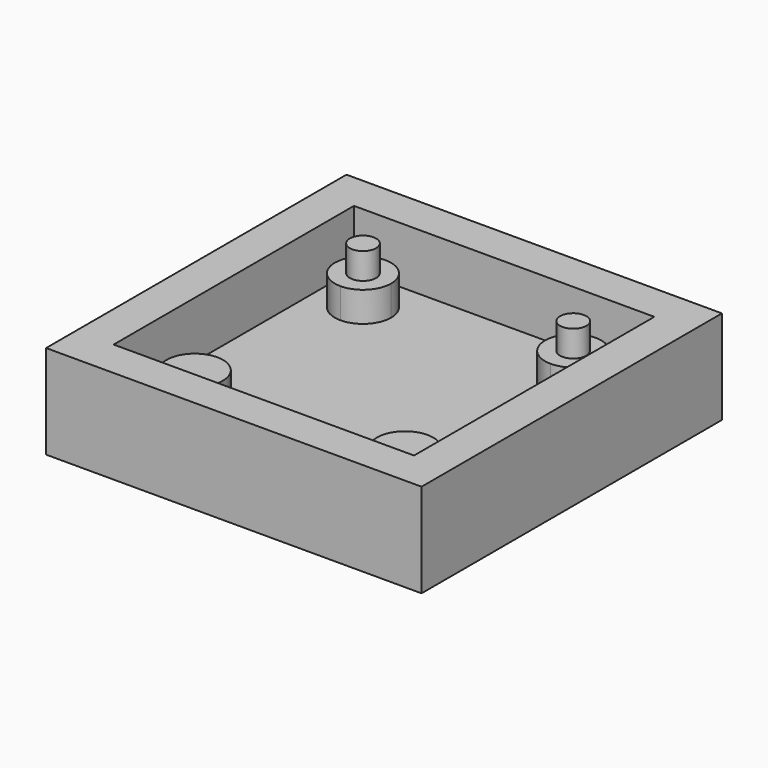
from build123d import *

# Parameters (mm, degrees)
F0_W     = 25.4
F0_H     = 25.4
F1_DEPTH = 6.35
F2_T     = -2.54
F4_DEPTH = 2.032
F5_R     = 0.889
F6_DEPTH = 1.778


with BuildPart() as f1:
    # F0 (on Top) → F1 (new body)
    with BuildSketch(Plane.XY):
        with Locations((-104.38567, -20.633587)):
            Rectangle(F0_W, F0_H)
    extrude(amount=F1_DEPTH)

    # F2
    f2_openings = [f1.faces().sort_by_distance(p)[0] for p in [
        (-104.38567, -20.633587, 6.35),
    ]]
    offset(amount=F2_T, openings=f2_openings)

    # F3 (on face) → F4 (join)
    with BuildSketch(Plane.XY.offset(2.54)):
        with BuildLine():
            ThreePointArc((-111.49767, -15.426587), (-110.150632, -14.868626), (-109.59267, -13.521587))
            Line((-109.59267, -13.521587), (-111.49767, -13.521587))
            Line((-111.49767, -13.521587), (-111.49767, -15.426587))
        make_face()
        with BuildLine():
            Line((-111.49767, -13.521587), (-109.59267, -13.521587))
            ThreePointArc((-109.59267, -13.521587), (-112.844708, -12.174549), (-111.49767, -15.426587))
            Line((-111.49767, -15.426587), (-111.49767, -13.521587))
        make_face()
        with BuildLine():
            ThreePointArc((-95.36867, -13.521587), (-97.27367, -11.616587), (-99.17867, -13.521587))
            Line((-99.17867, -13.521587), (-97.27367, -13.521587))
            Line((-97.27367, -13.521587), (-97.27367, -15.426587))
            ThreePointArc((-97.27367, -15.426587), (-95.926632, -14.868626), (-95.36867, -13.521587))
        make_face()
        with BuildLine():
            Line((-97.27367, -13.521587), (-99.17867, -13.521587))
            ThreePointArc((-99.17867, -13.521587), (-98.620708, -14.868626), (-97.27367, -15.426587))
            Line((-97.27367, -15.426587), (-97.27367, -13.521587))
        make_face()
        with BuildLine():
            Line((-97.27367, -27.745587), (-97.27367, -25.840587))
            ThreePointArc((-97.27367, -25.840587), (-98.620708, -26.398549), (-99.17867, -27.745587))
            Line((-99.17867, -27.745587), (-97.27367, -27.745587))
        make_face()
        with BuildLine():
            ThreePointArc((-95.36867, -27.745587), (-95.926632, -26.398549), (-97.27367, -25.840587))
            Line((-97.27367, -25.840587), (-97.27367, -27.745587))
            Line((-97.27367, -27.745587), (-99.17867, -27.745587))
            ThreePointArc((-99.17867, -27.745587), (-97.27367, -29.650587), (-95.36867, -27.745587))
        make_face()
        with BuildLine():
            Line((-111.49767, -27.745587), (-111.49767, -25.840587))
            ThreePointArc((-111.49767, -25.840587), (-112.844708, -29.092626), (-109.59267, -27.745587))
            Line((-109.59267, -27.745587), (-111.49767, -27.745587))
        make_face()
        with BuildLine():
            ThreePointArc((-109.59267, -27.745587), (-110.150632, -26.398549), (-111.49767, -25.840587))
            Line((-111.49767, -25.840587), (-111.49767, -27.745587))
            Line((-111.49767, -27.745587), (-109.59267, -27.745587))
        make_face()
    extrude(amount=F4_DEPTH)

    # F5 (on face) → F6 (join)
    with BuildSketch(Plane.XY.offset(4.572)):
        with Locations((-111.49767, -13.521587)):
            Circle(F5_R)
        with BuildLine():
            ThreePointArc((-96.38467, -13.521587), (-97.27367, -12.632587), (-98.16267, -13.521587))
            ThreePointArc((-98.16267, -13.521587), (-97.27367, -14.410587), (-96.38467, -13.521587))
        make_face()
    extrude(amount=F6_DEPTH)


solid = f1.part
